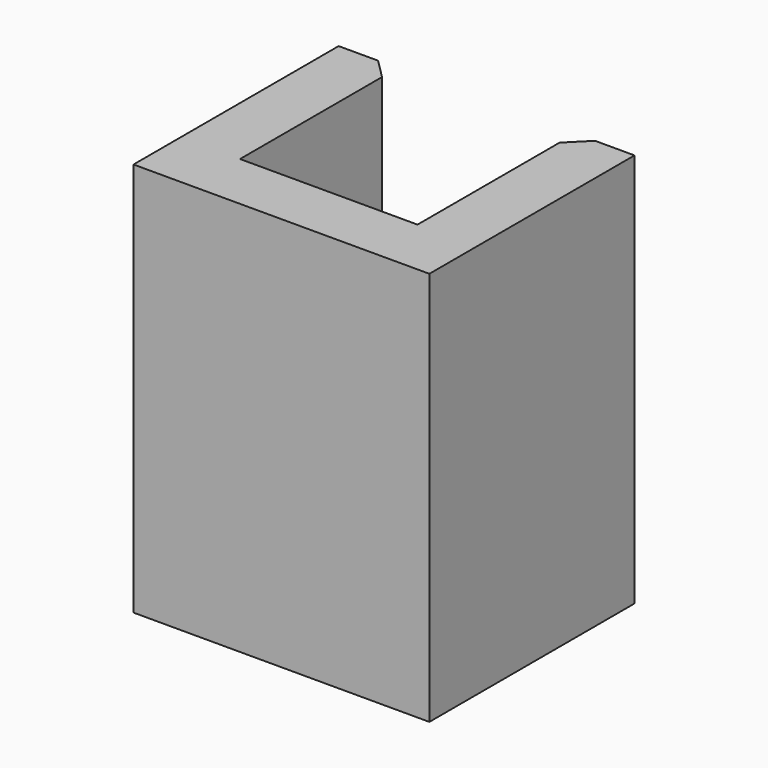
from build123d import *

# Parameters (mm, degrees)
PAD_DEPTH    = 20
CHAMFER_SIZE = 1


with BuildPart() as part:
    # Sketch → Pad (new body)
    with BuildSketch(Plane.XY):
        Polygon((-7.5, 5), (-7.5, -8), (7.5, -8), (7.5, 5), (4.5, 5), (4.5, -5), (-4.5, -5), (-4.5, 5), align=None)
    extrude(amount=PAD_DEPTH)

    # Chamfer
    chamfer_edges = [part.edges().sort_by_distance(p)[0] for p in [
        (-4.5, 5, 10),
        (4.5, 5, 10),
    ]]
    chamfer(chamfer_edges, length=CHAMFER_SIZE)


solid = part.part
